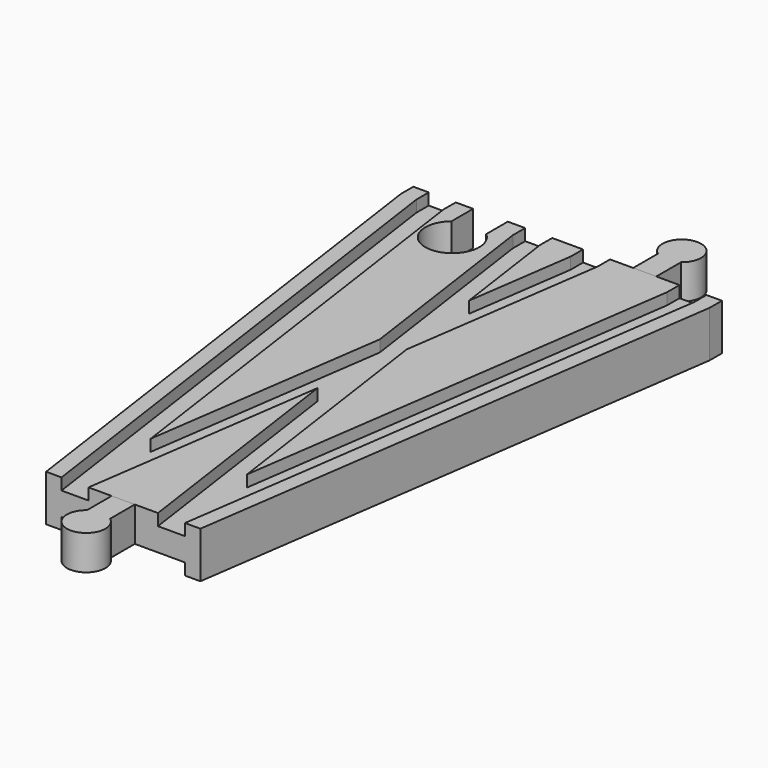
from build123d import *

# Parameters (mm, degrees)
SKETCH004_W       = 32
SKETCH004_H       = 3
SKETCH005_W       = 7
SKETCH005_H       = 3
SKETCH006_W       = 7
SKETCH006_H       = 3
POCKET_DEPTH      = 6.001
POCKET_DEPTH_BACK = -6.001
PAD_DEPTH         = 6
PAD_DEPTH_BACK    = 3
PAD002_DEPTH      = 6
PAD002_DEPTH_BACK = 3


with BuildPart() as body:
    # AdditivePipe: sweep along a path in Sketch
    with BuildLine(Plane.XY) as additivepipe_path:
        Line((-20, 144), (-20, 140))
        Line((-20, 140), (0, 0))
    # Sketch002 → AdditivePipe (sweep)
    with BuildSketch(Plane.XZ):
        Polygon((-20, 6), (-20, -6), (-16, -6), (-16, -3), (-9, -3), (9, -3), (16, -3), (16, -6), (20, -6), (20, 6), (16, 6), (16, 3), (9, 3), (9, 6), (-9, 6), (-9, 3), (-16, 3), (-16, 6), align=None)
    sweep(path=additivepipe_path.line)

    # AdditivePipe001: sweep along a path in Sketch001
    with BuildLine(Plane.XY) as additivepipe001_path:
        Line((20, 144), (20, 140))
        Line((20, 140), (0, 0))
    # Sketch002 → AdditivePipe001 (sweep)
    with BuildSketch(Plane.XZ):
        Polygon((-20, 6), (-20, -6), (-16, -6), (-16, -3), (-9, -3), (9, -3), (16, -3), (16, -6), (20, -6), (20, 6), (16, 6), (16, 3), (9, 3), (9, 6), (-9, 6), (-9, 3), (-16, 3), (-16, 6), align=None)
    sweep(path=additivepipe001_path.line)

    # SubtractivePipe: sweep along a path in Sketch
    with BuildLine(Plane.XY) as subtractivepipe_path:
        Line((-20, 144), (-20, 140))
        Line((-20, 140), (0, 0))
    # Sketch004 → SubtractivePipe (sweep, cut)
    with BuildSketch(Plane.XZ):
        with Locations((0, -4.5)):
            Rectangle(SKETCH004_W, SKETCH004_H)
    sweep(path=subtractivepipe_path.line, mode=Mode.SUBTRACT)

    # SubtractivePipe001: sweep along a path in Sketch001
    with BuildLine(Plane.XY) as subtractivepipe001_path:
        Line((20, 144), (20, 140))
        Line((20, 140), (0, 0))
    # Sketch004 → SubtractivePipe001 (sweep, cut)
    with BuildSketch(Plane.XZ):
        with Locations((0, -4.5)):
            Rectangle(SKETCH004_W, SKETCH004_H)
    sweep(path=subtractivepipe001_path.line, mode=Mode.SUBTRACT)

    # SubtractivePipe002: sweep along a path in Sketch
    with BuildLine(Plane.XY) as subtractivepipe002_path:
        Line((-20, 144), (-20, 140))
        Line((-20, 140), (0, 0))
    # Sketch005 → SubtractivePipe002 (sweep, cut)
    with BuildSketch(Plane.XZ):
        with Locations((-12.5, 4.5)):
            Rectangle(SKETCH005_W, SKETCH005_H)
    sweep(path=subtractivepipe002_path.line, mode=Mode.SUBTRACT)

    # SubtractivePipe003: sweep along a path in Sketch001
    with BuildLine(Plane.XY) as subtractivepipe003_path:
        Line((20, 144), (20, 140))
        Line((20, 140), (0, 0))
    # Sketch005 → SubtractivePipe003 (sweep, cut)
    with BuildSketch(Plane.XZ):
        with Locations((-12.5, 4.5)):
            Rectangle(SKETCH005_W, SKETCH005_H)
    sweep(path=subtractivepipe003_path.line, mode=Mode.SUBTRACT)

    # SubtractivePipe004: sweep along a path in Sketch
    with BuildLine(Plane.XY) as subtractivepipe004_path:
        Line((-20, 144), (-20, 140))
        Line((-20, 140), (0, 0))
    # Sketch006 → SubtractivePipe004 (sweep, cut)
    with BuildSketch(Plane.XZ):
        with Locations((12.5, 4.5)):
            Rectangle(SKETCH006_W, SKETCH006_H)
    sweep(path=subtractivepipe004_path.line, mode=Mode.SUBTRACT)

    # SubtractivePipe005: sweep along a path in Sketch001
    with BuildLine(Plane.XY) as subtractivepipe005_path:
        Line((20, 144), (20, 140))
        Line((20, 140), (0, 0))
    # Sketch006 → SubtractivePipe005 (sweep, cut)
    with BuildSketch(Plane.XZ):
        with Locations((12.5, 4.5)):
            Rectangle(SKETCH006_W, SKETCH006_H)
    sweep(path=subtractivepipe005_path.line, mode=Mode.SUBTRACT)

    # Sketch007 → Pocket (cut, two sides)
    with BuildSketch(Plane.XY) as pocket_sk:
        with BuildLine():
            Line((-24.5, 144), (-15.5, 144))
            Line((-15.5, 144), (-15.5, 137))
            ThreePointArc((-24.5, 137), (-20, 124.638097), (-15.5, 137))
            Line((-24.5, 144), (-24.5, 137))
        make_face()
    extrude(amount=-POCKET_DEPTH, mode=Mode.SUBTRACT)
    extrude(pocket_sk.sketch, amount=-POCKET_DEPTH_BACK, mode=Mode.SUBTRACT)


with BuildPart() as body001:
    # Sketch009 → Pad (new body, two sides)
    with BuildSketch(Plane.XY) as pad_sk:
        with BuildLine():
            Line((-3, 0), (3, 0))
            Line((3, 0), (3, -8))
            ThreePointArc((-3, -8), (0, -17), (3, -8))
            Line((-3, 0), (-3, -8))
        make_face()
    extrude(amount=PAD_DEPTH)
    extrude(pad_sk.sketch, amount=-PAD_DEPTH_BACK)


with BuildPart() as male3:
    # Sketch011 → Pad002 (new body, two sides)
    with BuildSketch(Plane.XY) as pad002_sk:
        with BuildLine():
            Line((17, 144), (23, 144))
            Line((23, 144), (23, 152))
            ThreePointArc((23, 152), (20, 161), (17, 152))
            Line((17, 144), (17, 152))
        make_face()
    extrude(amount=PAD002_DEPTH)
    extrude(pad002_sk.sketch, amount=-PAD002_DEPTH_BACK)


solid = Compound([body.part, body001.part, male3.part])
